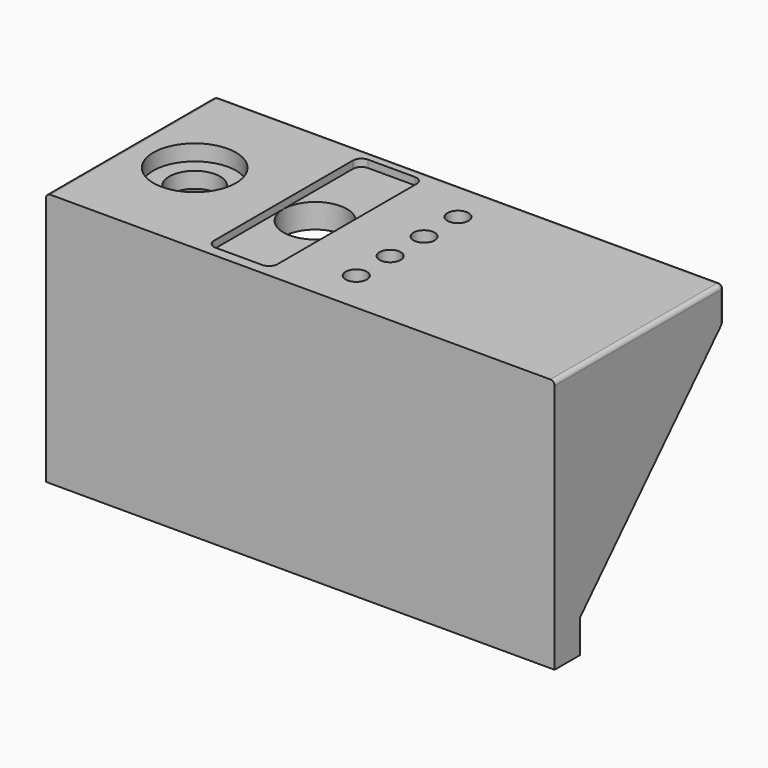
from build123d import *

# Parameters (mm, degrees)
F1_DEPTH = 152.4
F2_W     = 140.266319
F2_H     = 52.757537
F3_DEPTH = 66.68789
F4_R     = 7.62
F5_DEPTH = 25.4
F4_R_2   = 12.3825
F6_DEPTH = 4.7625
F7_DEPTH = 25.4
F8_DEPTH = 2.2225
F9_DEPTH = 2.2225
F10_D    = 6.35
F11_R    = 1.27


with BuildPart() as f1:
    # F0 (on Right) → F1 (new body)
    with BuildSketch(Plane.YZ):
        Polygon((63.5, 0), (0, 0), (0, -76.2), (9.525, -76.2), (9.525, -66.280512), (63.5, -9.525), align=None)
    extrude(amount=F1_DEPTH)

    # F2 (on face) → F3 (cut)
    with BuildSketch(Plane(origin=(0, 0, -76.2), x_dir=(1, 0, 0), z_dir=(0, 0, -1))):
        with Locations((76.120947, -35.903768)):
            Rectangle(F2_W, F2_H)
    extrude(amount=-F3_DEPTH, mode=Mode.SUBTRACT)

    # F4 (on face) → F5 (cut)
    with BuildSketch(Plane.XY):
        with Locations((19.136649, 31.75)):
            Circle(F4_R)
    extrude(amount=-F5_DEPTH, mode=Mode.SUBTRACT)

    # F4 (on face) → F6 (cut)
    with BuildSketch(Plane.XY):
        with Locations((19.136649, 31.75)):
            Circle(F4_R_2)
        with Locations((19.136649, 31.75)):
            Circle(F4_R, mode=Mode.SUBTRACT)
    extrude(amount=-F6_DEPTH, mode=Mode.SUBTRACT)

    # F4 (on face) → F7 (cut)
    with BuildSketch(Plane.XY):
        with BuildLine():
            ThreePointArc((45.733401, 31.75), (55.258401, 22.225), (64.783401, 31.75))
            ThreePointArc((64.783401, 31.75), (55.258401, 41.275), (45.733401, 31.75))
        make_face()
    extrude(amount=-F7_DEPTH, mode=Mode.SUBTRACT)

    # F4 (on face) → F8 (cut)
    with BuildSketch(Plane.XY):
        with BuildLine():
            ThreePointArc((45.733401, 31.75), (55.258401, 41.275), (64.783401, 31.75))
            Line((64.783401, 31.75), (64.783401, 57.785))
            ThreePointArc((64.783401, 57.785), (64.039452, 59.581051), (62.243401, 60.325))
            Line((62.243401, 60.325), (48.273401, 60.325))
            ThreePointArc((48.273401, 60.325), (46.47735, 59.581051), (45.733401, 57.785))
            Line((45.733401, 57.785), (45.733401, 31.75))
        make_face()
    extrude(amount=-F8_DEPTH, mode=Mode.SUBTRACT)

    # F4 (on face) → F9 (cut)
    with BuildSketch(Plane.XY):
        with BuildLine():
            Line((64.783401, 5.715), (64.783401, 31.75))
            ThreePointArc((64.783401, 31.75), (55.258401, 22.225), (45.733401, 31.75))
            Line((45.733401, 31.75), (45.733401, 5.715))
            ThreePointArc((45.733401, 5.715), (46.47735, 3.918949), (48.273401, 3.175))
            Line((48.273401, 3.175), (62.243401, 3.175))
            ThreePointArc((62.243401, 3.175), (64.039452, 3.918949), (64.783401, 5.715))
        make_face()
    extrude(amount=-F9_DEPTH, mode=Mode.SUBTRACT)

    # F10 (through all)
    with Locations(Plane.XY):
        with Locations((82.797177, 50.8), (82.797177, 38.1), (82.797177, 25.4), (82.797177, 12.7)):
            Hole(F10_D / 2)

    # F11
    f11_edges = [f1.edges().sort_by_distance(p)[0] for p in [
        (152.4, 31.75, 0),
        (76.2, 63.5, 0),
        (0, 31.75, 0),
        (0, 63.5, -4.7625),
        (152.4, 63.5, -4.7625),
        (76.2, 63.5, -9.525),
    ]]
    fillet(f11_edges, radius=F11_R)


solid = f1.part
